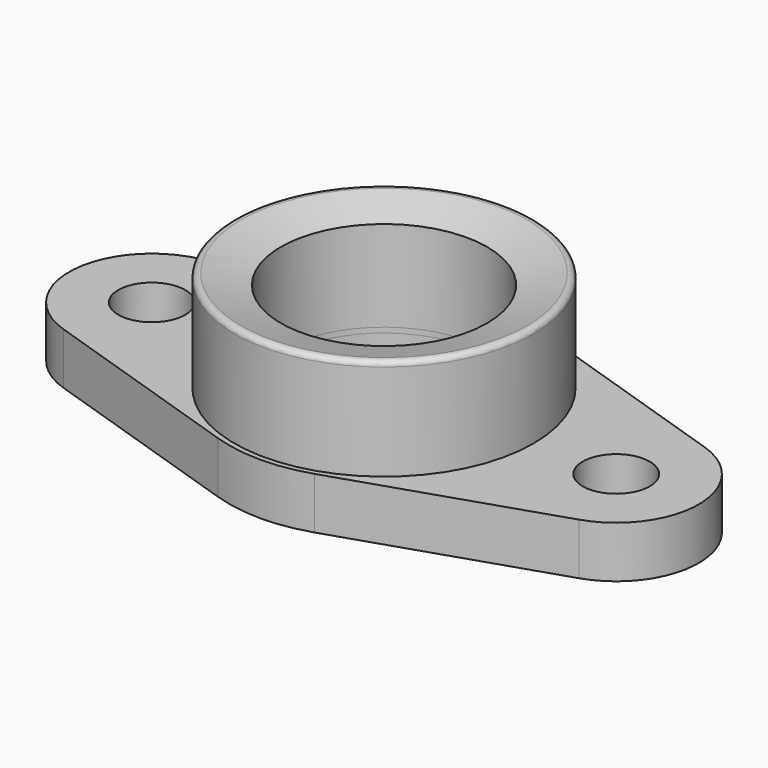
from build123d import *

# Parameters (mm, degrees)
SKETCH_R   = 20
SKETCH_R_2 = 6.5
PAD_DEPTH  = 10
FILLET_R   = 1


with BuildPart() as revolution:
    # Sketch001 → Revolution (revolve)
    with BuildSketch(Plane.XZ):
        Polygon((20, 9), (20, 27.588457), (29, 30), (29, 9), align=None)
    revolve(axis=Axis((0, 0, 0), (0, 0, 1)))


with BuildPart() as fillet_body:
    # Sketch → Pad (new body)
    with BuildSketch(Plane.XY):
        with BuildLine():
            ThreePointArc((9.333333, 28.511206), (0, 30), (-9.333333, 28.511206))
            Line((-49.977778, 15.205977), (-9.333333, 28.511206))
            ThreePointArc((-49.977778, 15.205977), (-61, 0), (-49.977778, -15.205977))
            Line((-49.977778, -15.205977), (-9.333333, -28.511206))
            ThreePointArc((-9.333333, -28.511206), (0, -30), (9.333333, -28.511206))
            Line((9.333333, -28.511206), (49.977778, -15.205977))
            ThreePointArc((49.977778, -15.205977), (61, 0), (49.977778, 15.205977))
            Line((9.333333, 28.511206), (49.977778, 15.205977))
        make_face()
        Circle(SKETCH_R, mode=Mode.SUBTRACT)
        with Locations((-45, 0)):
            Circle(SKETCH_R_2, mode=Mode.SUBTRACT)
        with Locations((45, 0)):
            Circle(SKETCH_R_2, mode=Mode.SUBTRACT)
    extrude(amount=PAD_DEPTH)

    # Fusion: union Revolution
    add(revolution.part)

    # Fillet
    fillet_edges = [fillet_body.edges().sort_by_distance(p)[0] for p in [
        (-29, 0, 30),
    ]]
    fillet(fillet_edges, radius=FILLET_R)


solid = fillet_body.part
